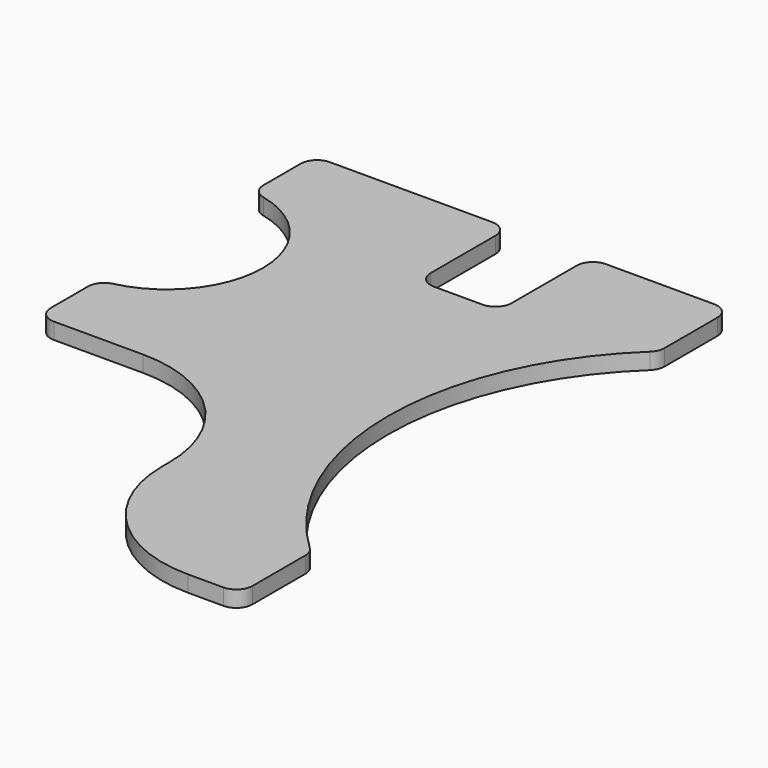
from build123d import *

# Parameters (mm, degrees)
F1_DEPTH = 6.35


with BuildPart() as f1:
    # F0 (on Top) → F1 (new body)
    with BuildSketch(Plane.XY):
        with BuildLine():
            ThreePointArc((-87.154024, 15.798011), (-90.694749, 13.563629), (-92.075, 9.610896))
            Line((-92.075, 9.610896), (-92.075, -8.65))
            ThreePointArc((-92.075, -8.65), (-90.215128, -13.140128), (-85.725, -15))
            Line((-85.725, -15), (-50.8, -15))
            ThreePointArc((-50.8, -15), (-14.878976, -29.878976), (0, -65.8))
            Line((0, -65.8), (0, -69.2))
            ThreePointArc((0, -69.2), (14.878976, -105.121024), (50.8, -120))
            Line((50.8, -120), (64.575, -120))
            ThreePointArc((64.575, -120), (69.065128, -118.140128), (70.925, -113.65))
            Line((70.925, -113.65), (70.925, -87.784507))
            ThreePointArc((70.925, -87.784507), (70.405264, -85.268454), (68.931135, -83.16427))
            ThreePointArc((68.931135, -83.16427), (33.041556, 0), (68.931135, 83.16427))
            ThreePointArc((68.931135, 83.16427), (70.405264, 85.268454), (70.925, 87.784507))
            Line((70.925, 87.784507), (70.925, 113.65))
            ThreePointArc((70.925, 113.65), (69.065128, 118.140128), (64.575, 120))
            Line((64.575, 120), (22.225, 120))
            ThreePointArc((22.225, 120), (17.734872, 118.140128), (15.875, 113.65))
            Line((15.875, 113.65), (15.875, 81.9))
            ThreePointArc((15.875, 81.9), (14.015128, 77.409872), (9.525, 75.55))
            Line((9.525, 75.55), (-9.525, 75.55))
            ThreePointArc((-9.525, 75.55), (-14.015128, 77.409872), (-15.875, 81.9))
            Line((-15.875, 81.9), (-15.875, 113.65))
            ThreePointArc((-15.875, 113.65), (-17.734872, 118.140128), (-22.225, 120))
            Line((-22.225, 120), (-85.725, 120))
            ThreePointArc((-85.725, 120), (-90.215128, 118.140128), (-92.075, 113.65))
            Line((-92.075, 113.65), (-92.075, 95.389104))
            ThreePointArc((-92.075, 95.389104), (-90.694749, 91.436371), (-87.154024, 89.201989))
            ThreePointArc((-87.154024, 89.201989), (-57.962776, 52.5), (-87.154024, 15.798011))
        make_face()
    extrude(amount=-F1_DEPTH)


solid = f1.part
